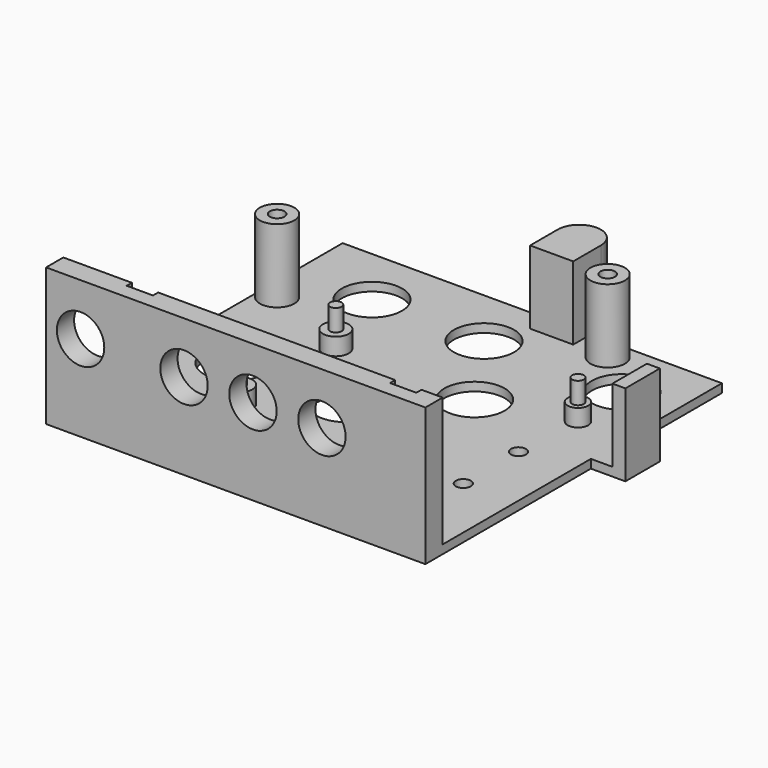
from build123d import *

# Parameters (mm, degrees)
PAD_DEPTH       = 2
SKETCH003_R     = 1.75
SKETCH003_R_2   = 7
SKETCH003_W     = 6
SKETCH003_H     = 3
POCKET_DEPTH    = 5
SKETCH001_R     = 4
SKETCH001_W     = 3
SKETCH001_H     = 10
PAD001_DEPTH    = 17
SKETCH007_R     = 2.4
SKETCH007_R_2   = 3
PAD002_DEPTH    = 4
PAD003_DEPTH    = 30
SKETCH008_R     = 1.35
PAD004_DEPTH    = 5
SKETCH004_R     = 1.7
POCKET001_DEPTH = 19
SKETCH006_R     = 5.5
POCKET002_DEPTH = 5


with BuildPart() as part:
    # Sketch → Pad (new body)
    with BuildSketch(Plane.XY):
        with BuildLine():
            Line((0, 0), (0, 86))
            Line((0, 86), (47.5, 86))
            Line((47.5, 86), (47.5, 89))
            ThreePointArc((57.5, 89), (52.5, 94), (47.5, 89))
            Line((57.5, 89), (57.5, 86))
            Line((57.5, 86), (88, 86))
            Line((88, 58), (88, 86))
            Line((96, 58), (88, 58))
            Line((96, 48), (96, 58))
            Line((88, 48), (96, 48))
            Line((88, 0), (88, 48))
            Line((88, 0), (0, 0))
        make_face()
    extrude(amount=PAD_DEPTH)

    # Sketch003 → Pocket (cut)
    with BuildSketch(Plane.XY.offset(2)):
        with Locations((76, 42)):
            Circle(SKETCH003_R)
        with Locations((76, 26)):
            Circle(SKETCH003_R)
        with Locations((14, 37)):
            Circle(SKETCH003_R_2)
        with Locations((40, 37)):
            Circle(SKETCH003_R_2)
        with Locations((76, 72)):
            Circle(SKETCH003_R_2)
        with Locations((44, 72)):
            Circle(SKETCH003_R_2)
        with Locations((18, 72)):
            Circle(SKETCH003_R_2)
        with Locations((57, 53)):
            Circle(SKETCH003_R_2)
        with Locations((57, 23)):
            Circle(SKETCH003_R_2)
        with Locations((80.1, 5)):
            Rectangle(SKETCH003_W, SKETCH003_H)
        with Locations((18.9, 5)):
            Rectangle(SKETCH003_W, SKETCH003_H)
    extrude(amount=-POCKET_DEPTH, mode=Mode.SUBTRACT)

    # Sketch001 → Pad001 (new body)
    with BuildSketch(Plane.XY.offset(2)):
        with BuildLine():
            Line((47.5, 89), (47.5, 81))
            Line((47.5, 81), (57.5, 81))
            Line((57.5, 81), (57.5, 89))
            ThreePointArc((57.5, 89), (52.5, 94), (47.5, 89))
        make_face()
        with Locations((4, 62)):
            Circle(SKETCH001_R)
        with Locations((94.5, 53)):
            Rectangle(SKETCH001_W, SKETCH001_H)
        with Locations((65.5, 81)):
            Circle(SKETCH001_R)
    extrude(amount=PAD001_DEPTH)

    # Sketch007 → Pad002 (new body)
    with BuildSketch(Plane.XY.offset(2)):
        with Locations((77, 58)):
            Circle(SKETCH007_R)
        with Locations((24.9, 52.9)):
            Circle(SKETCH007_R_2)
        with Locations((24.9, 25)):
            Circle(SKETCH007_R_2)
        with Locations((75.7, 9.8)):
            Circle(SKETCH007_R)
    extrude(amount=PAD002_DEPTH)

    # Sketch005 → Pad003 (new body)
    with BuildSketch(Plane.XY.offset(2)):
        Polygon((0, 0), (0, 5), (15.9, 5), (15.9, 3.5), (22, 3.5), (22, 5), (77, 5), (77, 3.5), (83.1, 3.5), (83.1, 5), (88, 5), (88, 0), align=None)
    extrude(amount=PAD003_DEPTH)

    # Sketch008 → Pad004 (new body)
    with BuildSketch(Plane.XY.offset(6)):
        with Locations((24.9, 52.9)):
            Circle(SKETCH008_R)
        with Locations((77, 58)):
            Circle(SKETCH008_R)
        with Locations((24.9, 25)):
            Circle(SKETCH008_R)
        with Locations((75.7, 9.8)):
            Circle(SKETCH008_R)
    extrude(amount=PAD004_DEPTH)

    # Sketch004 → Pocket001 (cut)
    with BuildSketch(Plane.XY.offset(19)):
        with Locations((4, 62)):
            Circle(SKETCH004_R)
        with Locations((65.5, 81)):
            Circle(SKETCH004_R)
    extrude(amount=-POCKET001_DEPTH, mode=Mode.SUBTRACT)

    # Sketch006 → Pocket002 (cut)
    with BuildSketch(Plane.XZ):
        with Locations((8, 20)):
            Circle(SKETCH006_R)
        with Locations((32, 20)):
            Circle(SKETCH006_R)
        with Locations((48, 20)):
            Circle(SKETCH006_R)
        with Locations((64, 20)):
            Circle(SKETCH006_R)
    extrude(amount=-POCKET002_DEPTH, mode=Mode.SUBTRACT)


solid = part.part
